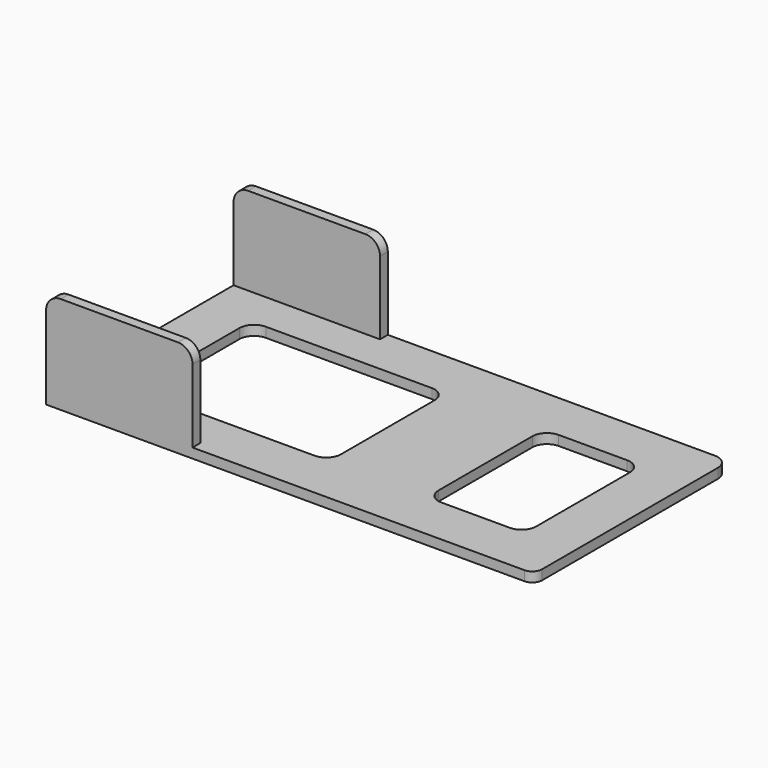
from build123d import *

# Parameters (mm, degrees)
BOX002_W      = 20
BOX002_H      = 30
BOX002_DEPTH  = 2
FILLET003_R   = 3
BOX001_W      = 40
BOX001_H      = 30
BOX001_DEPTH  = 2
FILLET002_R   = 3
BOX_W         = 100
BOX_H         = 50
BOX_DEPTH     = 2
FILLET_R      = 2
FILLET001_R   = 3
BOX003_W      = 30
BOX003_H      = 2
BOX003_DEPTH  = 20
FILLET004_R   = 3
ARRAY_Y_COUNT = 2
ARRAY_Y_PITCH = 48


with BuildPart() as fillet003:
    # Box002 → Box002 (new body)
    with BuildSketch(Plane.XY):
        with Locations((10, 15)):
            Rectangle(BOX002_W, BOX002_H)
    extrude(amount=BOX002_DEPTH)

    # Fillet003
    fillet003_edges = [fillet003.edges().sort_by_distance(p)[0] for p in [
        (0, 0, 1),
        (0, 30, 1),
        (20, 0, 1),
        (20, 30, 1),
    ]]
    fillet(fillet003_edges, radius=FILLET003_R)


with BuildPart() as fillet003_1:
    # Fillet003 placement: moved
    add(fillet003.part.moved(Location((70, 10, 0))))


with BuildPart() as fillet002:
    # Box001 → Box001 (new body)
    with BuildSketch(Plane(origin=(10, 10, 0), x_dir=(1, 0, 0), z_dir=(0, 0, 1))):
        with Locations((20, 15)):
            Rectangle(BOX001_W, BOX001_H)
    extrude(amount=BOX001_DEPTH)

    # Fillet002
    fillet002_edges = [fillet002.edges().sort_by_distance(p)[0] for p in [
        (10, 10, 1),
        (10, 40, 1),
        (50, 10, 1),
        (50, 40, 1),
    ]]
    fillet(fillet002_edges, radius=FILLET002_R)


with BuildPart() as cut001:
    # Box → Box (new body)
    with BuildSketch(Plane.XY):
        with Locations((50, 25)):
            Rectangle(BOX_W, BOX_H)
    extrude(amount=BOX_DEPTH)

    # Fillet
    fillet_edges = [cut001.edges().sort_by_distance(p)[0] for p in [
        (0, 0, 1),
        (0, 50, 1),
        (100, 0, 1),
    ]]
    fillet(fillet_edges, radius=FILLET_R)

    # Fillet001
    fillet001_edges = [cut001.edges().sort_by_distance(p)[0] for p in [
        (100, 50, 1),
    ]]
    fillet(fillet001_edges, radius=FILLET001_R)

    # Cut: cut Fillet002
    add(fillet002.part, mode=Mode.SUBTRACT)

    # Cut001: cut Fillet003
    add(fillet003_1.part, mode=Mode.SUBTRACT)


with BuildPart() as fusion:
    # Box003 → Box003 (new body)
    with BuildSketch(Plane.XY):
        with Locations((15, 1)):
            Rectangle(BOX003_W, BOX003_H)
    extrude(amount=BOX003_DEPTH)

    # Fillet004
    fillet004_edges = [fusion.edges().sort_by_distance(p)[0] for p in [
        (0, 1, 20),
        (30, 1, 20),
    ]]
    fillet(fillet004_edges, radius=FILLET004_R)

    # Array Y: Fusion ×2


with BuildPart() as fusion_1:
    add(fusion.part)
    with Locations(*[(0, i * ARRAY_Y_PITCH, 0) for i in range(1, ARRAY_Y_COUNT)]):
        add(fusion.part)

    # Fusion: union Cut001
    add(cut001.part)


solid = fusion_1.part
